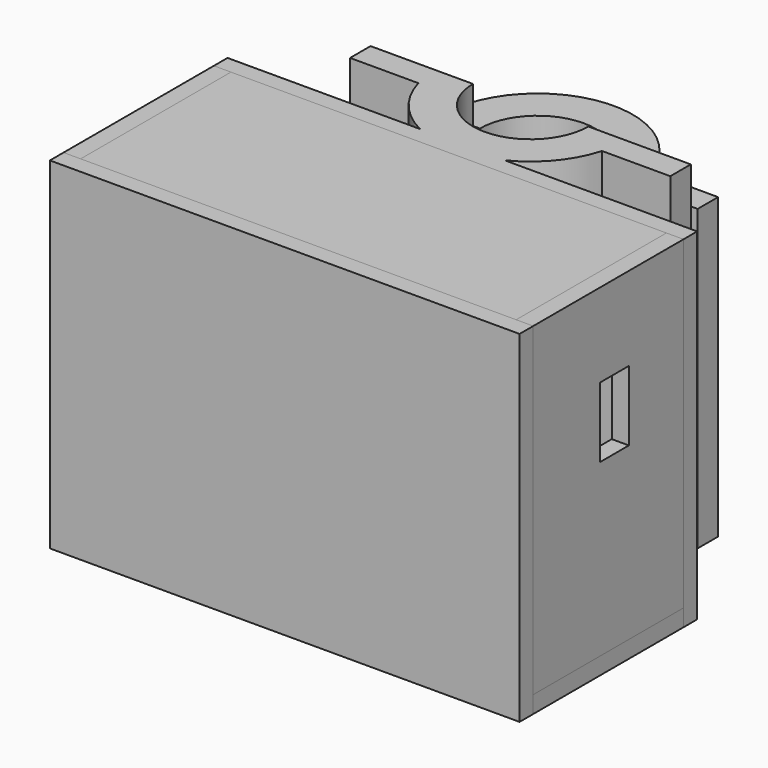
from build123d import *

# Parameters (mm, degrees)
SKETCH_W        = 55
SKETCH_H        = 24
SKETCH_R        = 3.5
SKETCH_W_2      = 6
SKETCH_H_2      = 2
PAD001_DEPTH    = 2
SKETCH002_W     = 55
SKETCH002_H     = 2
PAD002_DEPTH    = 40
SKETCH003_W     = 51
SKETCH003_H     = 2
PAD003_DEPTH    = 38
SKETCH004_W     = 4
SKETCH004_H     = 4
PAD004_DEPTH    = 5
SKETCH005_W     = 4
SKETCH005_H     = 4
PAD005_DEPTH    = 5
PAD_DEPTH       = 35
SKETCH006_R     = 2
POCKET_DEPTH    = 3
PAD006_DEPTH    = 40
SKETCH009_R     = 2
POCKET001_DEPTH = 3
POCKET002_DEPTH = 2
SKETCH011_W     = 55
SKETCH011_H     = 22
PAD007_DEPTH    = 2
SKETCH012_W     = 22
SKETCH012_H     = 38
SKETCH012_W_2   = 4.2
SKETCH012_H_2   = 8.2
PAD008_DEPTH    = 2
SKETCH014_W     = 22
SKETCH014_H     = 38
SKETCH014_W_2   = 12
SKETCH014_H_2   = 9.6
PAD009_DEPTH    = 2


with BuildPart() as top:
    # Sketch → Pad001 (new body)
    with BuildSketch(Plane(origin=(0, -23, 0), x_dir=(1, 0, 0), z_dir=(0, 0, 1))):
        Rectangle(SKETCH_W, SKETCH_H)
        with Locations((17.5, 0)):
            Circle(SKETCH_R, mode=Mode.SUBTRACT)
        with Locations((-4.5, 0)):
            Circle(SKETCH_R, mode=Mode.SUBTRACT)
        with Locations((0, 10)):
            Rectangle(SKETCH_W_2, SKETCH_H_2, mode=Mode.SUBTRACT)
    extrude(amount=PAD001_DEPTH)


with BuildPart() as side_opposite_mount:
    # Sketch002 → Pad002 (new body)
    with BuildSketch(Plane(origin=(0, -35, 0), x_dir=(1, 0, 0), z_dir=(0, 0, 1))):
        Rectangle(SKETCH002_W, SKETCH002_H)
    extrude(amount=PAD002_DEPTH)


with BuildPart() as ledge_for_bottom_sides_cover:
    # Sketch003 → Pad003 (new body)
    with BuildSketch(Plane(origin=(0, -33.5, 0), x_dir=(1, 0, 0), z_dir=(0, 0, 1))):
        Rectangle(SKETCH003_W, SKETCH003_H)
    extrude(amount=PAD003_DEPTH)


with BuildPart() as screw_right:
    # Sketch004 → Pad004 (new body)
    with BuildSketch(Plane(origin=(-23.5, -31, 1), x_dir=(1, 0, 0), z_dir=(0, 0, 1))):
        Rectangle(SKETCH004_W, SKETCH004_H)
    extrude(amount=PAD004_DEPTH)


with BuildPart() as screw_left:
    # Sketch005 → Pad005 (new body)
    with BuildSketch(Plane(origin=(23.5, -31, 1), x_dir=(1, 0, 0), z_dir=(0, 0, 1))):
        Rectangle(SKETCH005_W, SKETCH005_H)
    extrude(amount=PAD005_DEPTH)


with BuildPart() as mount_clip_pocket:
    # Sketch008 → Pad (new body)
    with BuildSketch(Plane(origin=(0, 1, 0), x_dir=(1, 0, 0), z_dir=(0, 0, 1))):
        with BuildLine():
            Line((6.75, 0), (18.75, 0))
            Line((18.75, 0), (18.75, 3))
            Line((18.75, 3), (10.75, 3))
            ThreePointArc((10.75, 3), (0, 11.160757), (-10.75, 3))
            Line((-18.75, 3), (-10.75, 3))
            Line((-18.75, 0), (-18.75, 3))
            Line((-6.75, 0), (-18.75, 0))
            ThreePointArc((6.75, 0), (0, 6.75), (-6.75, 0))
        make_face()
    extrude(amount=PAD_DEPTH)

    # Sketch006 → Pocket (cut)
    with BuildSketch(Plane(origin=(0, 4, 0), x_dir=(-1, 0, 0), z_dir=(0, 1, 0))):
        with Locations((15, 8.75)):
            Circle(SKETCH006_R)
        with Locations((-15, 8.75)):
            Circle(SKETCH006_R)
        with Locations((-15, 26.25)):
            Circle(SKETCH006_R)
        with Locations((15, 26.25)):
            Circle(SKETCH006_R)
    extrude(amount=-POCKET_DEPTH, mode=Mode.SUBTRACT)


with BuildPart() as pocket002:
    # Sketch001 → Pad006 (new body)
    with BuildSketch(Plane.XY):
        with BuildLine():
            Line((-6.75, 0), (-18.75, 0))
            Line((-18.75, 0), (-18.75, -3))
            Line((-18.75, -3), (-10.75, -3))
            ThreePointArc((-10.75, -3), (-8.597677, -7.11635), (-4.956057, -10))
            Line((-27.5, -10), (-4.956057, -10))
            Line((-27.5, -12), (-27.5, -10))
            Line((27.5, -12), (-27.5, -12))
            Line((27.5, -10), (27.5, -12))
            Line((4.956057, -10), (27.5, -10))
            ThreePointArc((4.956057, -10), (8.597677, -7.11635), (10.75, -3))
            Line((18.75, -3), (10.75, -3))
            Line((18.75, 0), (18.75, -3))
            Line((6.75, 0), (18.75, 0))
            ThreePointArc((-6.75, 0), (0, -6.75), (6.75, 0))
        make_face()
    extrude(amount=PAD006_DEPTH)

    # Sketch009 → Pocket001 (cut)
    with BuildSketch(Plane.XZ.offset(3)):
        with Locations((15, 8.75)):
            Circle(SKETCH009_R)
        with Locations((-15, 8.75)):
            Circle(SKETCH009_R)
        with Locations((-15, 26.25)):
            Circle(SKETCH009_R)
        with Locations((15, 26.25)):
            Circle(SKETCH009_R)
    extrude(amount=-POCKET001_DEPTH, mode=Mode.SUBTRACT)

    # Sketch010 → Pocket002 (cut)
    with BuildSketch(Plane.XZ.offset(3)):
        Polygon((-16.732051, 29.25), (-13.267949, 29.25), (-11.535898, 26.25), (-13.267949, 23.25), (-16.732051, 23.25), (-18.464102, 26.25), align=None)
        Polygon((11.535898, 26.25), (13.267949, 29.25), (16.732051, 29.25), (18.464102, 26.25), (16.732051, 23.25), (13.267949, 23.25), align=None)
        Polygon((13.267949, 11.75), (16.732051, 11.75), (18.464102, 8.75), (16.732051, 5.75), (13.267949, 5.75), (11.535898, 8.75), align=None)
        Polygon((-11.535898, 8.75), (-13.267949, 11.75), (-16.732051, 11.75), (-18.464102, 8.75), (-16.732051, 5.75), (-13.267949, 5.75), align=None)
    extrude(amount=-POCKET002_DEPTH, mode=Mode.SUBTRACT)


with BuildPart() as cover_bottom:
    # Sketch011 → Pad007 (new body)
    with BuildSketch(Plane(origin=(0, -23, 38), x_dir=(1, 0, 0), z_dir=(0, 0, 1))):
        Rectangle(SKETCH011_W, SKETCH011_H)
    extrude(amount=PAD007_DEPTH)


with BuildPart() as cover_side_usb:
    # Sketch012 → Pad008 (new body)
    with BuildSketch(Plane(origin=(25.5, -23, 21), x_dir=(0, 1, 0), z_dir=(1, 0, 0))):
        Rectangle(SKETCH012_W, SKETCH012_H)
        with Locations((0.9, 5.1)):
            Rectangle(SKETCH012_W_2, SKETCH012_H_2, mode=Mode.SUBTRACT)
    extrude(amount=PAD008_DEPTH)


with BuildPart() as cover_side_power:
    # Sketch014 → Pad009 (new body)
    with BuildSketch(Plane(origin=(-27.5, -23, 21), x_dir=(0, 1, 0), z_dir=(1, 0, 0))):
        Rectangle(SKETCH014_W, SKETCH014_H)
        with Locations((0, -8.7)):
            Rectangle(SKETCH014_W_2, SKETCH014_H_2, mode=Mode.SUBTRACT)
    extrude(amount=PAD009_DEPTH)


solid = Compound([top.part, side_opposite_mount.part, ledge_for_bottom_sides_cover.part, screw_right.part, screw_left.part, mount_clip_pocket.part, pocket002.part, cover_bottom.part, cover_side_usb.part, cover_side_power.part])
